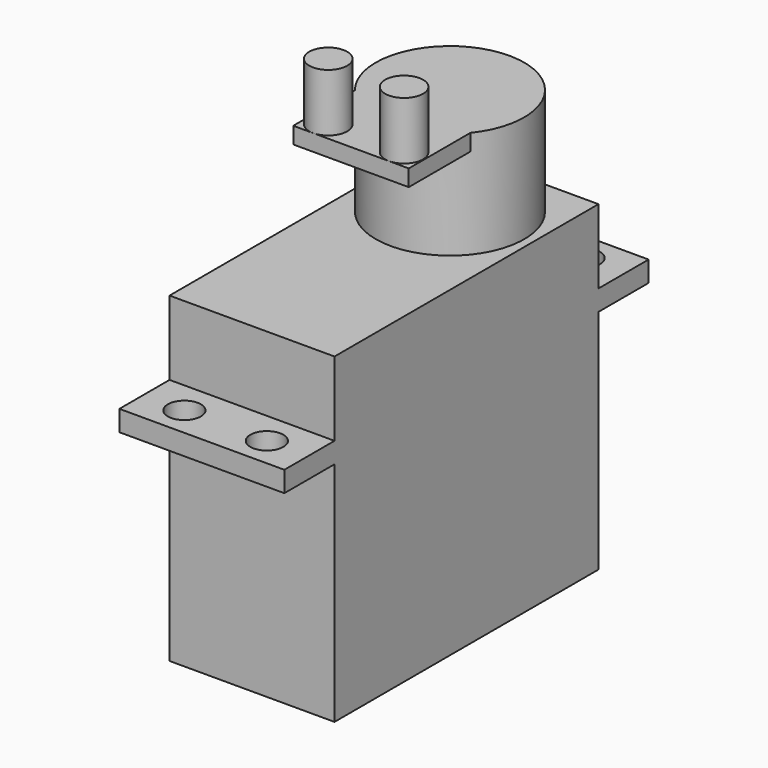
from build123d import *

# Parameters (mm, degrees)
CYLINDER001_R             = 2
CYLINDER001_DEPTH         = 10
CYLINDER_R                = 2
CYLINDER_DEPTH            = 10
BOX001_W                  = 7.6
BOX001_H                  = 20
BOX001_DEPTH              = 2.5
BOX_W                     = 40
BOX_H                     = 20
BOX_DEPTH                 = 39
BOX002_W                  = 14
BOX002_H                  = 16
BOX002_DEPTH              = 2
CYLINDER002_R             = 9
CYLINDER002_DEPTH         = 13
CYLINDER004_R             = 2.3
CYLINDER004_DEPTH         = 7
CYLINDER003_R             = 2.3
CYLINDER003_DEPTH         = 7
FUSION009_PLACEMENT_ANGLE = 90
BODY_ROLL_ANGLE           = 180
BODY_PLACEMENT_ANGLE      = -90


with BuildPart() as cylinder001:
    # Cylinder001 → Cylinder001 (new body)
    with BuildSketch(Plane(origin=(44, 15, 5), x_dir=(1, 0, 0), z_dir=(0, 0, 1))):
        Circle(CYLINDER001_R)
    extrude(amount=CYLINDER001_DEPTH)


with BuildPart() as fusion:
    # Cylinder → Cylinder (new body)
    with BuildSketch(Plane(origin=(44, 5, 5), x_dir=(1, 0, 0), z_dir=(0, 0, 1))):
        Circle(CYLINDER_R)
    extrude(amount=CYLINDER_DEPTH)

    # Fusion: union Cylinder001
    add(cylinder001.part)


with BuildPart() as cut:
    # Box001 → Box001 (new body)
    with BuildSketch(Plane(origin=(40, 0, 9), x_dir=(1, 0, 0), z_dir=(0, 0, 1))):
        with Locations((3.8, 10)):
            Rectangle(BOX001_W, BOX001_H)
    extrude(amount=BOX001_DEPTH)

    # Cut: cut Fusion
    add(fusion.part, mode=Mode.SUBTRACT)


with BuildPart() as cut_1:
    # Cut placement: moved
    add(cut.part.moved(Location((-10, -10, 0))))


with BuildPart() as part_mirroring:
    # Part__Mirroring: instance of Cut
    add(cut_1.part.mirror(Plane(origin=(0, 0, 0), x_dir=(0, -1, 0), z_dir=(1, 0, 0))))


with BuildPart() as part_mirroring_1:
    # Part__Mirroring placement: moved
    add(part_mirroring.part.moved(Location((20, 0, 0))))


with BuildPart() as fusion010:
    # Box → Box (new body)
    with BuildSketch(Plane(origin=(-10, -10, 0), x_dir=(1, 0, 0), z_dir=(0, 0, 1))):
        with Locations((20, 10)):
            Rectangle(BOX_W, BOX_H)
    extrude(amount=BOX_DEPTH)

    # Fusion010: union Part__Mirroring, Cut
    add(part_mirroring_1.part)
    add(cut_1.part)


with BuildPart() as cube002:
    # Box002 → Box002 (new body)
    with BuildSketch(Plane(origin=(-7, -15, 0), x_dir=(1, 0, 0), z_dir=(0, 0, 1))):
        with Locations((7, 8)):
            Rectangle(BOX002_W, BOX002_H)
    extrude(amount=BOX002_DEPTH)


with BuildPart() as shaft:
    # Cylinder002 → Cylinder002 (new body)
    with BuildSketch(Plane.XY):
        Circle(CYLINDER002_R)
    extrude(amount=CYLINDER002_DEPTH)


with BuildPart() as cylinder004:
    # Cylinder004 → Cylinder004 (new body)
    with BuildSketch(Plane(origin=(4.6, -12.7, -7), x_dir=(1, 0, 0), z_dir=(0, 0, 1))):
        Circle(CYLINDER004_R)
    extrude(amount=CYLINDER004_DEPTH)


with BuildPart() as servo:
    # Cylinder003 → Cylinder003 (new body)
    with BuildSketch(Plane(origin=(-4.6, -12.7, -7), x_dir=(1, 0, 0), z_dir=(0, 0, 1))):
        Circle(CYLINDER003_R)
    extrude(amount=CYLINDER003_DEPTH)

    # Fusion009: union Cube002, shaft, Cylinder004
    add(cube002.part)
    add(shaft.part)
    add(cylinder004.part)


with BuildPart() as servo_1:
    # Fusion009 placement: moved
    add(servo.part.moved(Location((0, 0, -13))).rotate(Axis((0, 0, -13), (0, 0, 1)), FUSION009_PLACEMENT_ANGLE))

    # Fusion011: union Fusion010
    add(fusion010.part)


with BuildPart() as servo_2:
    # Fusion011 placement: moved
    add(servo_1.part.moved(Location((10, 10, 0))))


with BuildPart() as servo_3:
    # Body roll: moved
    add(servo_2.part.rotate(Axis((0, 0, 0), (1, 0, 0)), BODY_ROLL_ANGLE))


with BuildPart() as servo_4:
    # Body placement: moved
    add(servo_3.part.moved(Location((10, -1.5, 12.5))).rotate(Axis((10, -1.5, 12.5), (0, 0, 1)), BODY_PLACEMENT_ANGLE))


solid = servo_4.part
